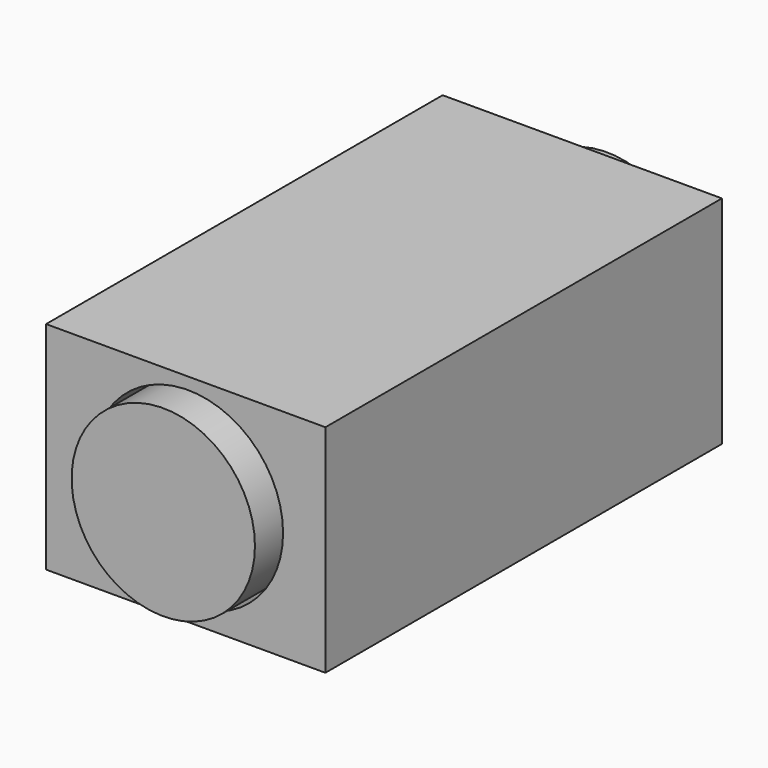
from build123d import *

# Parameters (mm, degrees)
F0_W          = 71.288534
F0_H          = 55.172773
F0_R          = 24.268437
F1_DEPTH      = 63.246
F1_DEPTH_BACK = 63.246
F2_R          = 23.390482
F3_DEPTH      = 71.12
F3_DEPTH_BACK = 70.358


with BuildPart() as f1:
    # F0 (on Front) → F1 (new body, two sides)
    with BuildSketch(Plane.XZ) as f1_sk:
        with Locations((-0.568792, -0.284396)):
            Rectangle(F0_W, F0_H)
        Circle(F0_R, mode=Mode.SUBTRACT)
    extrude(amount=F1_DEPTH)
    extrude(f1_sk.sketch, amount=-F1_DEPTH_BACK)


with BuildPart() as f3:
    # F2 (on Front) → F3 (new body, two sides)
    with BuildSketch(Plane.XZ) as f3_sk:
        Circle(F2_R)
    extrude(amount=F3_DEPTH)
    extrude(f3_sk.sketch, amount=-F3_DEPTH_BACK)


solid = Compound([f1.part, f3.part])
